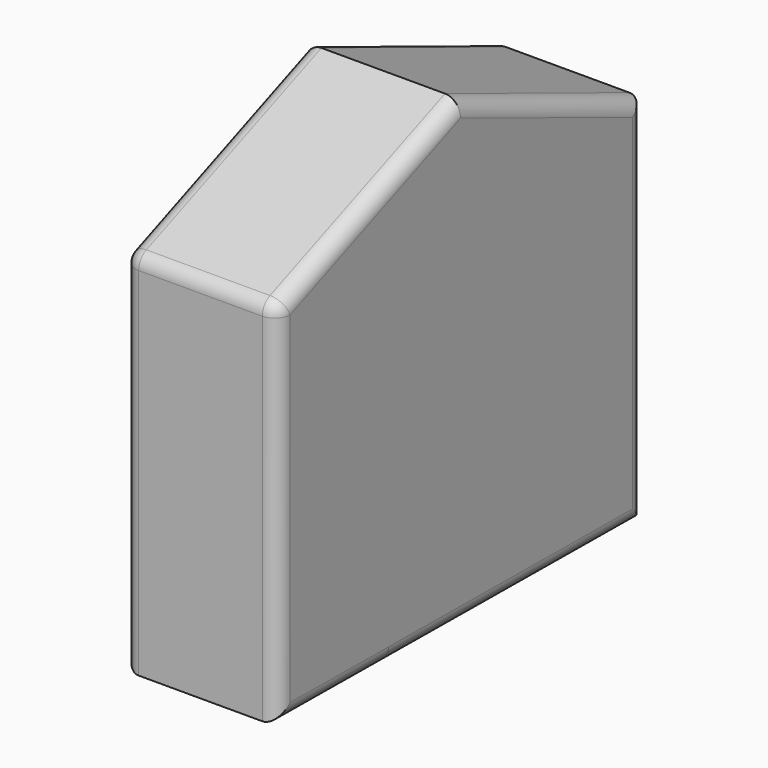
from build123d import *

# Parameters (mm, degrees)
F0_W     = 13.1108500377
F0_H     = 9.5085129142
F1_DEPTH = 50.8
F2_R     = 5.08


with BuildPart() as f1:
    # F0 (on Right) → F1 (new body)
    with BuildSketch(Plane.YZ):
        Polygon((-75.0844627619, 8.5248695686), (-75.0844627619, -75.7402256131), (-29.5183288899, -76.1364526489), (75.7402181625, -77.051743865), (75.7402181625, 8.5248695686), (51.8028265953, 8.5248695686), (27.8654350281, 8.5248695686), (27.8654350281, 26.7221950926), (27.8654350281, 44.9195206165), (-29.5183288899, 44.9195206165), (-29.5183288899, 37.7061665058), (-29.5183288899, 27.2140149027), (-29.5183288899, 8.5248695686), (-52.3013958259, 8.5248695686), align=None)
        Polygon((0, -33.7004187564), (-29.5183288899, -33.4437377751), (-29.5183288899, -16.7218707502), (-29.5183288899, 0), (0, -0.2566809813), (27.8654350281, -0.4989889803), (27.8654350281, -17.2208597305), (27.8654350281, -33.9427267554), align=None, mode=Mode.SUBTRACT)
        with Locations((21.3100100093, -51.3131842017)):
            Rectangle(F0_W, F0_H, mode=Mode.SUBTRACT)
        Polygon((0, 75.4123330116), (-75.0844627619, 44.9195206165), (-54.7559186816, 44.9195206165), (-29.5183288899, 44.9195206165), (27.8654350281, 44.9195206165), (51.149237901, 44.9195206165), (75.7402181625, 44.9195206165), align=None)
        Polygon((-29.5183288899, -16.7218707502), (-29.5183288899, -33.4437377751), (0, -33.7004187564), (0, -16.9785517315), align=None)
        Polygon((-29.5183288899, 0), (-29.5183288899, -16.7218707502), (0, -16.9785517315), (0, -0.2566809813), align=None)
        Polygon((-53.5618264951, 27.2140149027), (-52.3013958259, 8.5248695686), (-29.5183288899, 8.5248695686), (-29.5183288899, 27.2140149027), align=None)
        Polygon((-54.7559186816, 44.9195206165), (-53.5618264951, 27.2140149027), (-29.5183288899, 27.2140149027), (-29.5183288899, 37.7061665058), (-29.5183288899, 44.9195206165), align=None)
        Polygon((-75.0844627619, 44.9195206165), (-75.0844627619, 27.2140149027), (-53.5618264951, 27.2140149027), (-54.7559186816, 44.9195206165), align=None)
        Polygon((-75.0844627619, 27.2140149027), (-75.0844627619, 8.5248695686), (-52.3013958259, 8.5248695686), (-53.5618264951, 27.2140149027), align=None)
        Polygon((27.8654350281, 8.5248695686), (51.8028265953, 8.5248695686), (51.4760322481, 26.7221950926), (27.8654350281, 26.7221950926), align=None)
        Polygon((27.8654350281, 26.7221950926), (51.4760322481, 26.7221950926), (51.149237901, 44.9195206165), (27.8654350281, 44.9195206165), align=None)
        Polygon((51.4760322481, 26.7221950926), (75.7402181625, 26.7221950926), (75.7402181625, 44.9195206165), (51.149237901, 44.9195206165), align=None)
        Polygon((51.8028265953, 8.5248695686), (75.7402181625, 8.5248695686), (75.7402181625, 26.7221950926), (51.4760322481, 26.7221950926), align=None)
        Polygon((0, -0.2566809813), (0, -16.9785517315), (27.8654350281, -17.2208597305), (27.8654350281, -0.4989889803), align=None)
        Polygon((0, -16.9785517315), (0, -33.7004187564), (27.8654350281, -33.9427267554), (27.8654350281, -17.2208597305), align=None)
        with Locations((21.3100100093, -51.3131842017)):
            Rectangle(F0_W, F0_H)
    extrude(amount=F1_DEPTH)

    # F2
    f2_edges = [f1.edges().sort_by_distance(p)[0] for p in [
        (0, 37.870109, 60.165927),
        (0, 75.740218, -16.066112),
        (0, -75.084463, -15.410352),
        (0, -37.542231, 60.165927),
        (25.4, -75.084463, 44.919521),
        (50.8, -75.084463, -15.410352),
        (0, 0.327878, -76.395985),
        (50.8, 0.327878, -76.395985),
        (50.8, 75.740218, -16.066112),
        (50.8, 37.870109, 60.165927),
        (50.8, -37.542231, 60.165927),
    ]]
    fillet(f2_edges, radius=F2_R)


solid = f1.part
